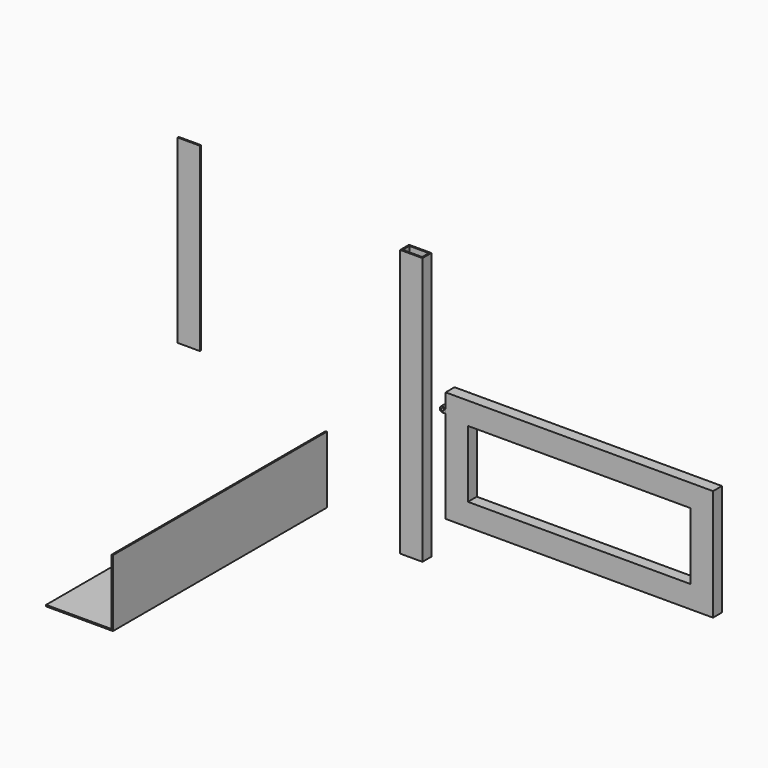
from build123d import *

# Parameters (mm, degrees)
F0_W      = 149.225
F0_H      = 3.175
F0_W_2    = 3.175
F0_H_2    = 149.225
F1_DEPTH  = 609.6
F2_DEPTH  = 3.175
F3_R      = 3.175
F4_DEPTH  = 25.4
F5_DEPTH  = 25.4
F6_R      = 3.175
F7_DEPTH  = 25.4
F8_W      = 50.8
F8_H      = 609.6
F9_DEPTH  = 25.4
F10_W     = 44.45
F10_H     = 19.05
F11_DEPTH = 609.601
F12_W     = 609.6
F12_H     = 254
F12_W_2   = 508
F12_H_2   = 152.4
F13_DEPTH = 25.4
F14_W     = 50.8
F14_H     = 412.135066
F15_DEPTH = 3.175


with BuildPart() as f1:
    # F0 (on Front) → F1 (new body)
    with BuildSketch(Plane.XZ):
        with Locations((-329.183801, -284.901469)):
            Rectangle(F0_W, F0_H)
        with Locations((-252.983801, -284.901469)):
            Rectangle(F0_W_2, F0_H)
        with Locations((-252.983801, -208.701469)):
            Rectangle(F0_W_2, F0_H_2)
    extrude(amount=F1_DEPTH)


with BuildPart() as f2:
    # F0 (on Front) → F2 (new body)
    with BuildSketch(Plane.XZ):
        Polygon((-254.571301, -134.088969), (-403.796301, -283.313969), (-254.571301, -283.313969), align=None)
    extrude(amount=F2_DEPTH)


with BuildPart() as f4:
    # F3 (on Front) → F4 (new body)
    with BuildSketch(Plane.XZ):
        with BuildLine():
            ThreePointArc((32.814461, 7.081124), (37.304589, 8.940996), (39.164461, 13.431124))
            ThreePointArc((39.164461, 13.431124), (38.611191, 16.0235), (37.047794, 18.164134))
            ThreePointArc((37.047794, 18.164134), (26.882466, 15.696944), (32.814461, 7.081124))
        make_face()
        with Locations((32.814461, 13.431124)):
            Circle(F3_R, mode=Mode.SUBTRACT)
        with BuildLine():
            ThreePointArc((37.047794, 18.164134), (38.611191, 16.0235), (39.164461, 13.431124))
            Line((39.164461, 13.431124), (42.339461, 13.431124))
            Line((42.339461, 13.431124), (37.047794, 18.164134))
        make_face()
        with BuildLine():
            Line((39.164461, 7.081124), (39.164461, 13.431124))
            ThreePointArc((39.164461, 13.431124), (37.304589, 8.940996), (32.814461, 7.081124))
            Line((32.814461, 7.081124), (39.164461, 7.081124))
        make_face()
        Polygon((42.339461, 13.431124), (39.164461, 13.431124), (39.164461, 7.081124), (39.164461, -37.368876), (42.339461, -37.368876), align=None)
    extrude(amount=F4_DEPTH)


with BuildPart() as f5:
    # F3 (on Front) → F5 (new body)
    with BuildSketch(Plane.XZ):
        Polygon((42.339461, 13.431124), (39.164461, 13.431124), (39.164461, 7.081124), (39.164461, -37.368876), (42.339461, -37.368876), align=None)
        with BuildLine():
            Line((39.164461, 7.081124), (39.164461, 13.431124))
            ThreePointArc((39.164461, 13.431124), (37.304589, 8.940996), (32.814461, 7.081124))
            Line((32.814461, 7.081124), (39.164461, 7.081124))
        make_face()
        with BuildLine():
            ThreePointArc((37.047794, 18.164134), (38.611191, 16.0235), (39.164461, 13.431124))
            Line((39.164461, 13.431124), (42.339461, 13.431124))
            Line((42.339461, 13.431124), (37.047794, 18.164134))
        make_face()
        with BuildLine():
            ThreePointArc((32.814461, 7.081124), (37.304589, 8.940996), (39.164461, 13.431124))
            ThreePointArc((39.164461, 13.431124), (38.611191, 16.0235), (37.047794, 18.164134))
            ThreePointArc((37.047794, 18.164134), (26.882466, 15.696944), (32.814461, 7.081124))
        make_face()
        with Locations((32.814461, 13.431124)):
            Circle(F3_R, mode=Mode.SUBTRACT)
        with Locations((32.814461, 13.431124)):
            Circle(F3_R)
    extrude(amount=-F5_DEPTH)

    # F6 (on face) → F7 (join)
    with BuildSketch(Plane(origin=(0, 25.4, 0), x_dir=(-1, 0, 0), z_dir=(0, 1, 0))):
        with Locations((-32.814461, 13.431124)):
            Circle(F6_R)
    extrude(amount=F7_DEPTH)


with BuildPart() as f9:
    # F8 (on Front) → F9 (new body)
    with BuildSketch(Plane.XZ):
        with Locations((-38.534949, -2.715807)):
            Rectangle(F8_W, F8_H)
    extrude(amount=F9_DEPTH)

    # F10 (on face) → F11 (cut, through all)
    with BuildSketch(Plane.XY.offset(302.084193)):
        with Locations((-38.534949, -12.7)):
            Rectangle(F10_W, F10_H)
    extrude(amount=-F11_DEPTH, mode=Mode.SUBTRACT)


with BuildPart() as f13:
    # F12 (on Front) → F13 (new body)
    with BuildSketch(Plane.XZ):
        with Locations((344.518735, -77.093654)):
            Rectangle(F12_W, F12_H)
        with Locations((344.518735, -77.093654)):
            Rectangle(F12_W_2, F12_H_2, mode=Mode.SUBTRACT)
    extrude(amount=F13_DEPTH)


with BuildPart() as f15:
    # F14 (on Front) → F15 (new body)
    with BuildSketch(Plane.XZ):
        with Locations((-563.624591, 141.761065)):
            Rectangle(F14_W, F14_H)
    extrude(amount=F15_DEPTH)


solid = Compound([f1.part, f2.part, f4.part, f5.part, f9.part, f13.part, f15.part])
